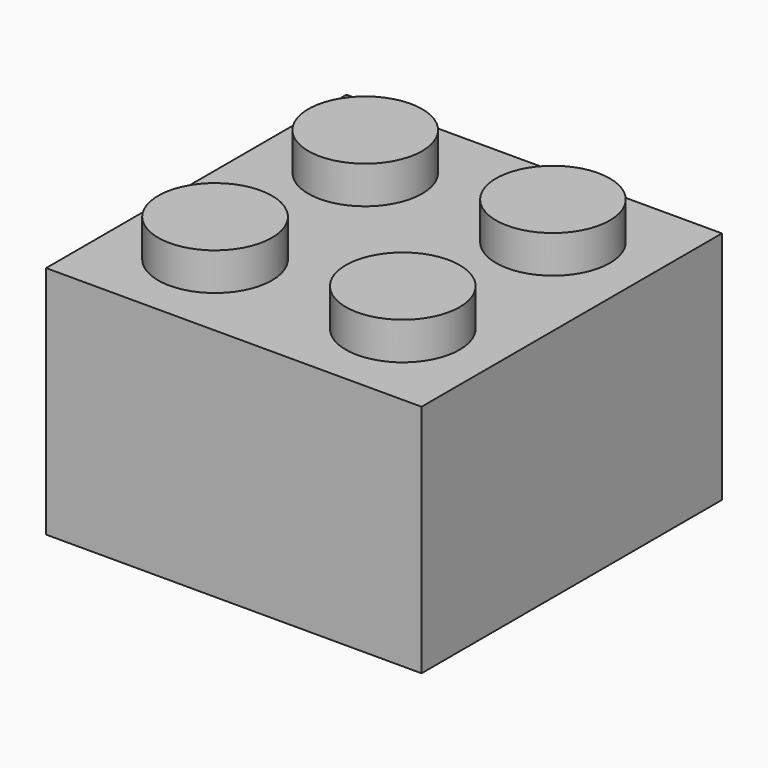
from build123d import *

# Parameters (mm, degrees)
F0_W     = 16
F0_H     = 16
F1_DEPTH = 10
F2_T     = -1.4
F3_R     = 2.425
F4_DEPTH = 1.6
F5_R     = 2.925
F6_DEPTH = 10


with BuildPart() as f1:
    # F0 (on Top) → F1 (new body)
    with BuildSketch(Plane.XY):
        Rectangle(F0_W, F0_H)
    extrude(amount=F1_DEPTH)

    # F2
    f2_openings = [f1.faces().sort_by_distance(p)[0] for p in [
        (0, 0, 0),
    ]]
    offset(amount=F2_T, openings=f2_openings)

    # F3 (on face) → F4 (join)
    with BuildSketch(Plane.XY.offset(10)):
        with Locations((-4, -4)):
            Circle(F3_R)
        with Locations((-4, 4)):
            Circle(F3_R)
        with Locations((4, -4)):
            Circle(F3_R)
        with Locations((4, 4)):
            Circle(F3_R)
    extrude(amount=F4_DEPTH)

    # F5 (on face) → F6 (join)
    with BuildSketch(Plane.XY.offset(10)):
        Circle(F5_R)
    extrude(amount=-F6_DEPTH)


solid = f1.part
